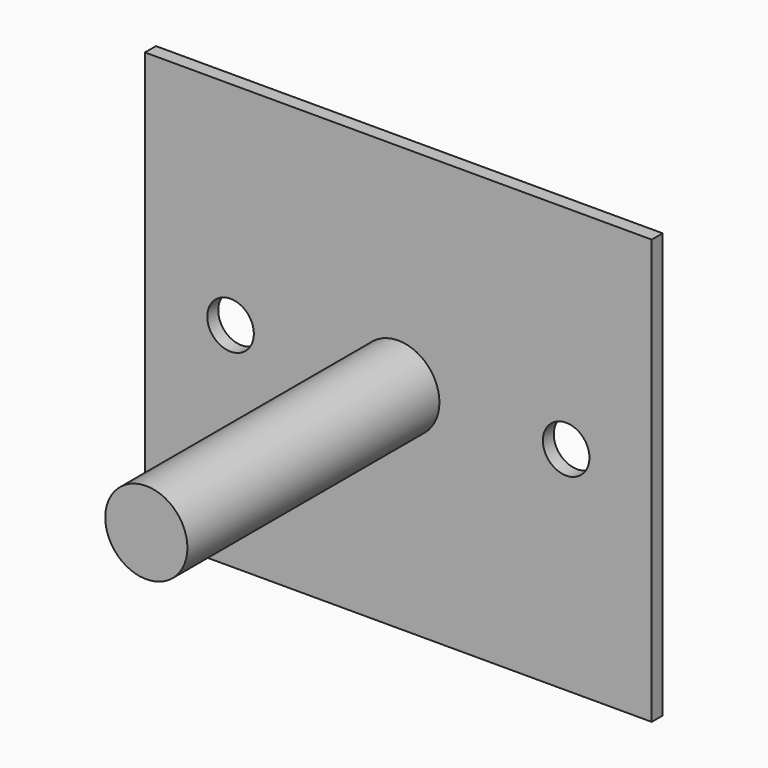
from build123d import *

# Parameters (mm, degrees)
F0_R     = 15
F1_DEPTH = 120
F0_W     = 185
F0_H     = 155
F0_R_2   = 8.5
F2_DEPTH = 5


with BuildPart() as f1:
    # F0 (on Front) → F1 (new body)
    with BuildSketch(Plane.XZ):
        Circle(F0_R)
    extrude(amount=F1_DEPTH)

    # F0 (on Front) → F2 (join)
    with BuildSketch(Plane.XZ):
        Rectangle(F0_W, F0_H)
        with Locations((-61.25, 0)):
            Circle(F0_R_2, mode=Mode.SUBTRACT)
        Circle(F0_R, mode=Mode.SUBTRACT)
        with Locations((61.25, 0)):
            Circle(F0_R_2, mode=Mode.SUBTRACT)
    extrude(amount=F2_DEPTH)


solid = f1.part
